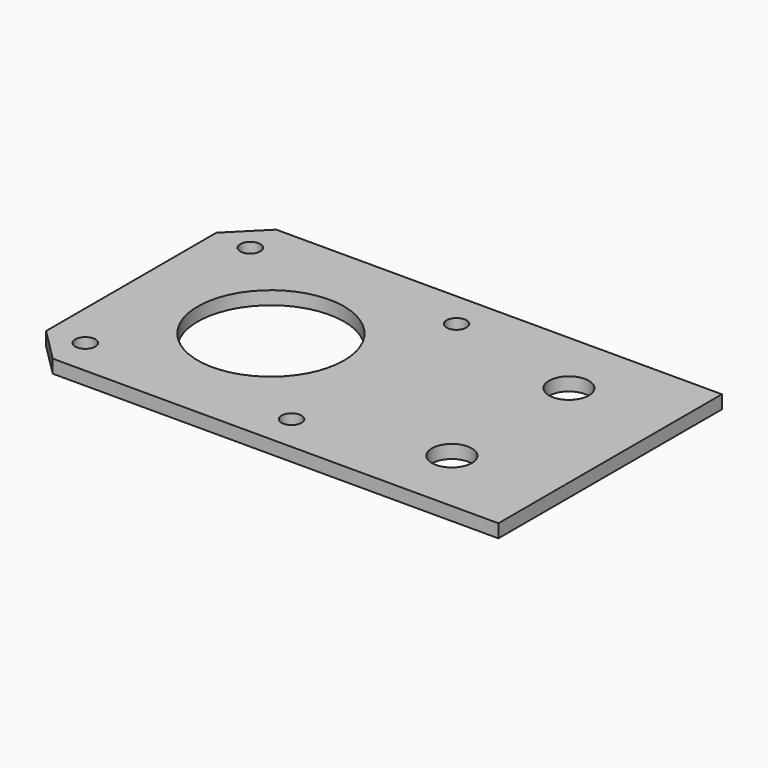
from build123d import *

# Parameters (mm, degrees)
F0_W     = 72
F0_H     = 42
F0_R     = 1.5
F0_R_2   = 3
F0_R_3   = 11
F1_DEPTH = 2
F2_SIZE  = 5


with BuildPart() as f1:
    # F0 (on Top) → F1 (new body)
    with BuildSketch(Plane.XY):
        Rectangle(F0_W, F0_H)
        with Locations((-30.5, -15.5)):
            Circle(F0_R, mode=Mode.SUBTRACT)
        with Locations((0.5, -15.5)):
            Circle(F0_R, mode=Mode.SUBTRACT)
        with Locations((21, -11)):
            Circle(F0_R_2, mode=Mode.SUBTRACT)
        with Locations((-15, 0)):
            Circle(F0_R_3, mode=Mode.SUBTRACT)
        with Locations((-30.5, 15.5)):
            Circle(F0_R, mode=Mode.SUBTRACT)
        with Locations((0.5, 15.5)):
            Circle(F0_R, mode=Mode.SUBTRACT)
        with Locations((21, 11)):
            Circle(F0_R_2, mode=Mode.SUBTRACT)
    extrude(amount=F1_DEPTH)

    # F2
    f2_edges = [f1.edges().sort_by_distance(p)[0] for p in [
        (-36, -21, 1),
        (-36, 21, 1),
    ]]
    chamfer(f2_edges, length=F2_SIZE)


solid = f1.part
